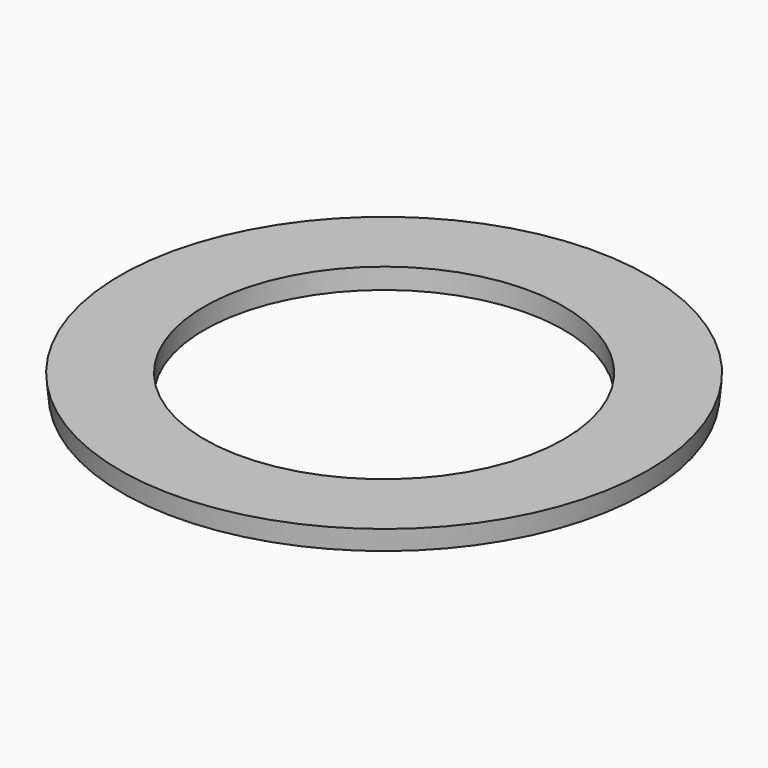
from build123d import *

# Parameters (mm, degrees)
CYLINDER003_R     = 17.5
CYLINDER003_DEPTH = 10


with BuildPart() as cylinder003:
    # Cylinder003 → Cylinder003 (new body)
    with BuildSketch(Plane.XY):
        Circle(CYLINDER003_R)
    extrude(amount=CYLINDER003_DEPTH)


with BuildPart() as cut003:
    # Cone003 → Cone003 (revolve)
    with BuildSketch(Plane.XZ):
        Polygon((0, 0), (25.5, 0), (25.7, 2), (0, 2), align=None)
    revolve(axis=Axis((0, 0, 0), (0, 0, 1)))

    # Cut003: cut Cylinder003
    add(cylinder003.part, mode=Mode.SUBTRACT)


solid = cut003.part
